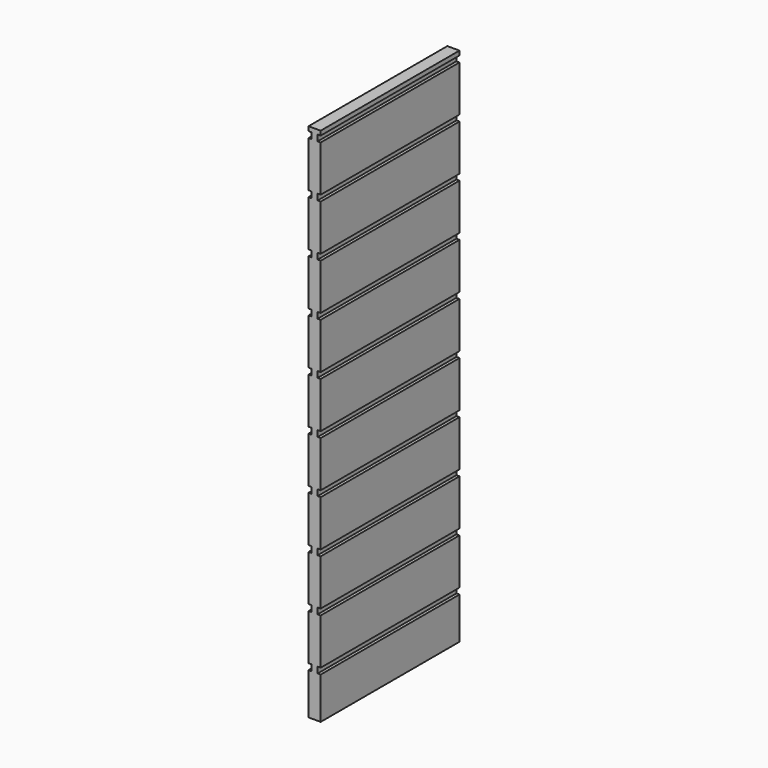
from build123d import *

# Parameters (mm, degrees)
F1_DEPTH = 400


with BuildPart() as f1:
    # F0 (on Front) → F1 (new body)
    with BuildSketch(Plane.XZ):
        Polygon((-14, 0), (0, 0), (14, 0), (14, 96), (7, 96), (7, 110), (14, 110), (14, 216), (7, 216), (7, 230), (14, 230), (14, 336), (7, 336), (7, 350), (14, 350), (14, 456), (7, 456), (7, 470), (14, 470), (14, 576), (7, 576), (7, 590), (14, 590), (14, 696), (7, 696), (7, 710), (14, 710), (14, 816), (7, 816), (7, 830), (14, 830), (14, 936), (7, 936), (7, 950), (14, 950), (14, 1056), (7, 1056), (7, 1070), (14, 1070), (14, 1176), (7, 1176), (7, 1190), (14, 1190), (14, 1200), (0, 1200), (-14, 1200), (-14, 1190), (-7, 1190), (-7, 1176), (-14, 1176), (-14, 1070), (-7, 1070), (-7, 1056), (-14, 1056), (-14, 950), (-7, 950), (-7, 936), (-14, 936), (-14, 830), (-7, 830), (-7, 816), (-14, 816), (-14, 710), (-7, 710), (-7, 696), (-14, 696), (-14, 590), (-7, 590), (-7, 576), (-14, 576), (-14, 470), (-7, 470), (-7, 456), (-14, 456), (-14, 350), (-7, 350), (-7, 336), (-14, 336), (-14, 230), (-7, 230), (-7, 216), (-14, 216), (-14, 110), (-7, 110), (-7, 96), (-14, 96), align=None)
    extrude(amount=F1_DEPTH)


solid = f1.part
